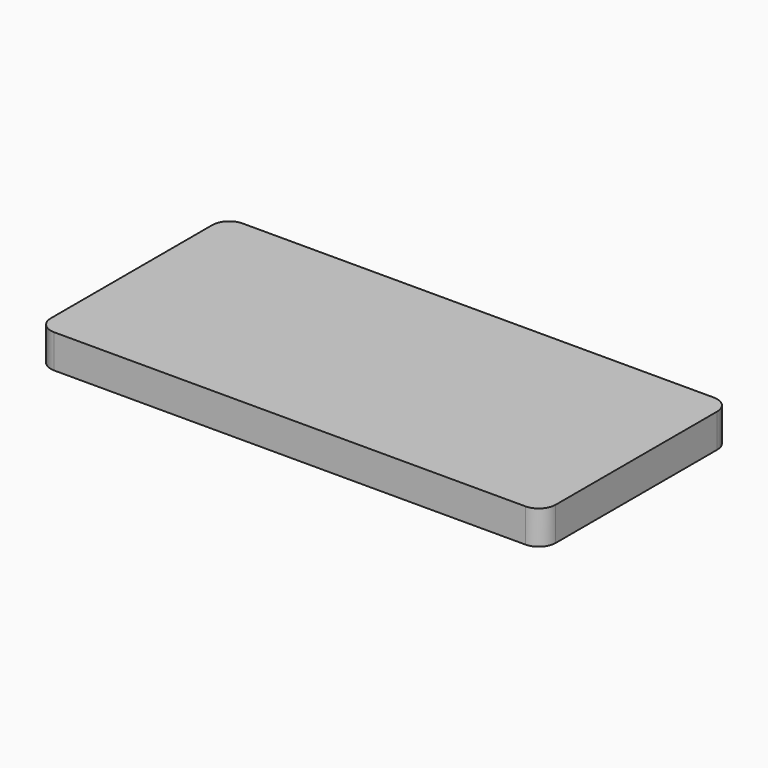
from build123d import *

# Parameters (mm, degrees)
F1_DEPTH = 1


with BuildPart() as f1:
    # F0 (on Top) → F1 (new body, symmetric)
    with BuildSketch(Plane.XY):
        with BuildLine():
            ThreePointArc((15, 6), (14.7071067812, 6.7071067812), (14, 7))
            Line((14, 7), (-14, 7))
            ThreePointArc((-14, 7), (-14.7071067812, 6.7071067812), (-15, 6))
            Line((-15, 6), (-15, -6))
            ThreePointArc((-15, -6), (-14.7071067812, -6.7071067812), (-14, -7))
            Line((-14, -7), (14, -7))
            ThreePointArc((14, -7), (14.7071067812, -6.7071067812), (15, -6))
            Line((15, -6), (15, 6))
        make_face()
    extrude(amount=F1_DEPTH, both=True)


solid = f1.part
